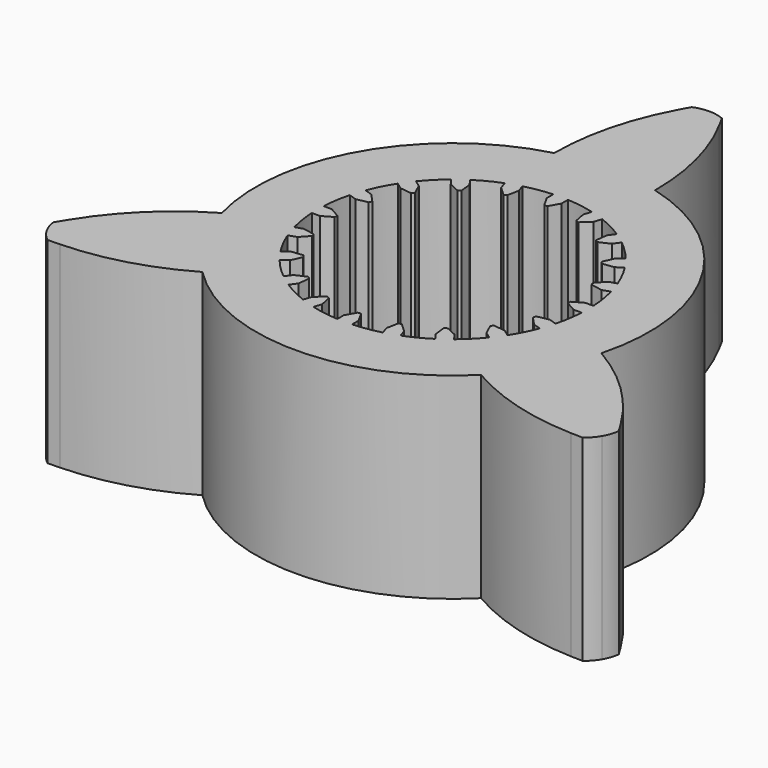
from build123d import *

# Parameters (mm, degrees)
F1_DEPTH = 5.08


with BuildPart() as f1:
    # F0 (on Top) → F1 (new body)
    with BuildSketch(Plane.XY):
        with BuildLine():
            Line((-1.303194, 4.916082), (-1.303194, 4.909999))
            ThreePointArc((-1.303194, 4.909999), (-4.399409, 2.54), (-4.90378, -1.3264))
            Line((-4.90378, -1.3264), (-4.909049, -1.329442))
            ThreePointArc((-4.909049, -1.329442), (-6.160633, -2.275918), (-7.141908, -3.500407))
            Line((-7.141908, -3.500407), (-7.30476, -3.76501))
            ThreePointArc((-7.30476, -3.76501), (-7.26021, -3.960887), (-7.177638, -4.144011))
            ThreePointArc((-7.177638, -4.144011), (-7.060334, -4.307083), (-6.912975, -4.443602))
            Line((-6.912975, -4.443602), (-6.602396, -4.434871))
            ThreePointArc((-6.602396, -4.434871), (-5.051319, -4.197305), (-3.605855, -3.58664))
            Line((-3.605855, -3.58664), (-3.600587, -3.583598))
            ThreePointArc((-3.600587, -3.583598), (0, -5.08), (3.600587, -3.583598))
            Line((3.600587, -3.583598), (3.605855, -3.58664))
            ThreePointArc((3.605855, -3.58664), (5.051319, -4.197305), (6.602396, -4.434871))
            Line((6.602396, -4.434871), (6.912975, -4.443602))
            ThreePointArc((6.912975, -4.443602), (7.060334, -4.307083), (7.177638, -4.144011))
            ThreePointArc((7.177638, -4.144011), (7.26021, -3.960887), (7.30476, -3.76501))
            Line((7.30476, -3.76501), (7.141908, -3.500407))
            ThreePointArc((7.141908, -3.500407), (6.160633, -2.275918), (4.909049, -1.329442))
            Line((4.909049, -1.329442), (4.90378, -1.3264))
            ThreePointArc((4.90378, -1.3264), (4.399409, 2.54), (1.303194, 4.909999))
            Line((1.303194, 4.909999), (1.303194, 4.916082))
            ThreePointArc((1.303194, 4.916082), (1.109314, 6.473223), (0.539513, 7.935278))
            Line((0.539513, 7.935278), (0.391785, 8.208613))
            ThreePointArc((0.391785, 8.208613), (0.199876, 8.26797), (0, 8.288022))
            ThreePointArc((0, 8.288022), (-0.199876, 8.26797), (-0.391785, 8.208613))
            Line((-0.391785, 8.208613), (-0.539513, 7.935278))
            ThreePointArc((-0.539513, 7.935278), (-1.109314, 6.473223), (-1.303194, 4.916082))
        make_face()
        with BuildLine():
            ThreePointArc((-0.896459, 3.375488), (-0.546347, 3.449502), (-0.1905, 3.487301))
            Line((-0.1905, 3.487301), (-0.1905, 3.277213))
            Line((-0.1905, 3.277213), (-0.043109, 3.015703))
            ThreePointArc((-0.043109, 3.015703), (0, 3.007692), (0.043109, 3.015703))
            Line((0.043109, 3.015703), (0.1905, 3.277213))
            Line((0.1905, 3.277213), (0.1905, 3.487301))
            ThreePointArc((0.1905, 3.487301), (0.546347, 3.449502), (0.896459, 3.375488))
            Line((0.896459, 3.375488), (0.831538, 3.175683))
            Line((0.831538, 3.175683), (0.890904, 2.881426))
            ThreePointArc((0.890904, 2.881426), (0.929428, 2.860485), (0.972903, 2.854783))
            Line((0.972903, 2.854783), (1.193891, 3.057947))
            Line((1.193891, 3.057947), (1.258811, 3.257752))
            ThreePointArc((1.258811, 3.257752), (1.585562, 3.11184), (1.895666, 2.933259))
            Line((1.895666, 2.933259), (1.77218, 2.763294))
            Line((1.77218, 2.763294), (1.73771, 2.465094))
            ThreePointArc((1.73771, 2.465094), (1.767877, 2.433274), (1.807462, 2.414416))
            Line((1.807462, 2.414416), (2.080415, 2.539348))
            Line((2.080415, 2.539348), (2.203902, 2.709312))
            ThreePointArc((2.203902, 2.709312), (2.46957, 2.46957), (2.709312, 2.203902))
            Line((2.709312, 2.203902), (2.539348, 2.080415))
            Line((2.539348, 2.080415), (2.414416, 1.807462))
            ThreePointArc((2.414416, 1.807462), (2.433274, 1.767877), (2.465094, 1.73771))
            Line((2.465094, 1.73771), (2.763294, 1.77218))
            Line((2.763294, 1.77218), (2.933259, 1.895666))
            ThreePointArc((2.933259, 1.895666), (3.11184, 1.585562), (3.257752, 1.258811))
            Line((3.257752, 1.258811), (3.057947, 1.193891))
            Line((3.057947, 1.193891), (2.854783, 0.972903))
            ThreePointArc((2.854783, 0.972903), (2.860485, 0.929428), (2.881426, 0.890904))
            Line((2.881426, 0.890904), (3.175683, 0.831538))
            Line((3.175683, 0.831538), (3.375488, 0.896459))
            ThreePointArc((3.375488, 0.896459), (3.449502, 0.546347), (3.487301, 0.1905))
            Line((3.487301, 0.1905), (3.277213, 0.1905))
            Line((3.277213, 0.1905), (3.015703, 0.043109))
            ThreePointArc((3.015703, 0.043109), (3.007692, 0), (3.015703, -0.043109))
            Line((3.015703, -0.043109), (3.277213, -0.1905))
            Line((3.277213, -0.1905), (3.487301, -0.1905))
            ThreePointArc((3.487301, -0.1905), (3.449502, -0.546347), (3.375488, -0.896459))
            Line((3.375488, -0.896459), (3.175683, -0.831538))
            Line((3.175683, -0.831538), (2.881426, -0.890904))
            ThreePointArc((2.881426, -0.890904), (2.860485, -0.929428), (2.854783, -0.972903))
            Line((2.854783, -0.972903), (3.057947, -1.193891))
            Line((3.057947, -1.193891), (3.257752, -1.258811))
            ThreePointArc((3.257752, -1.258811), (3.11184, -1.585562), (2.933259, -1.895666))
            Line((2.933259, -1.895666), (2.763294, -1.77218))
            Line((2.763294, -1.77218), (2.465094, -1.73771))
            ThreePointArc((2.465094, -1.73771), (2.433274, -1.767877), (2.414416, -1.807462))
            Line((2.414416, -1.807462), (2.539348, -2.080415))
            Line((2.539348, -2.080415), (2.709312, -2.203902))
            ThreePointArc((2.709312, -2.203902), (2.46957, -2.46957), (2.203902, -2.709312))
            Line((2.203902, -2.709312), (2.080415, -2.539348))
            Line((2.080415, -2.539348), (1.807462, -2.414416))
            ThreePointArc((1.807462, -2.414416), (1.767877, -2.433274), (1.73771, -2.465094))
            Line((1.73771, -2.465094), (1.77218, -2.763294))
            Line((1.77218, -2.763294), (1.895666, -2.933259))
            ThreePointArc((1.895666, -2.933259), (1.585562, -3.11184), (1.258811, -3.257752))
            Line((1.258811, -3.257752), (1.193891, -3.057947))
            Line((1.193891, -3.057947), (0.972903, -2.854783))
            ThreePointArc((0.972903, -2.854783), (0.929428, -2.860485), (0.890904, -2.881426))
            Line((0.890904, -2.881426), (0.831538, -3.175683))
            Line((0.831538, -3.175683), (0.896459, -3.375488))
            ThreePointArc((0.896459, -3.375488), (0.546347, -3.449502), (0.1905, -3.487301))
            Line((0.1905, -3.487301), (0.1905, -3.277213))
            Line((0.1905, -3.277213), (0.043109, -3.015703))
            ThreePointArc((0.043109, -3.015703), (0, -3.007692), (-0.043109, -3.015703))
            Line((-0.043109, -3.015703), (-0.1905, -3.277213))
            Line((-0.1905, -3.277213), (-0.1905, -3.487301))
            ThreePointArc((-0.1905, -3.487301), (-0.546347, -3.449502), (-0.896459, -3.375488))
            Line((-0.896459, -3.375488), (-0.831538, -3.175683))
            Line((-0.831538, -3.175683), (-0.890904, -2.881426))
            ThreePointArc((-0.890904, -2.881426), (-0.929428, -2.860485), (-0.972903, -2.854783))
            Line((-0.972903, -2.854783), (-1.193891, -3.057947))
            Line((-1.193891, -3.057947), (-1.258811, -3.257752))
            ThreePointArc((-1.258811, -3.257752), (-1.585562, -3.11184), (-1.895666, -2.933259))
            Line((-1.895666, -2.933259), (-1.77218, -2.763294))
            Line((-1.77218, -2.763294), (-1.73771, -2.465094))
            ThreePointArc((-1.73771, -2.465094), (-1.767877, -2.433274), (-1.807462, -2.414416))
            Line((-1.807462, -2.414416), (-2.080415, -2.539348))
            Line((-2.080415, -2.539348), (-2.203902, -2.709312))
            ThreePointArc((-2.203902, -2.709312), (-2.46957, -2.46957), (-2.709312, -2.203902))
            Line((-2.709312, -2.203902), (-2.539348, -2.080415))
            Line((-2.539348, -2.080415), (-2.414416, -1.807462))
            ThreePointArc((-2.414416, -1.807462), (-2.433274, -1.767877), (-2.465094, -1.73771))
            Line((-2.465094, -1.73771), (-2.763294, -1.77218))
            Line((-2.763294, -1.77218), (-2.933259, -1.895666))
            ThreePointArc((-2.933259, -1.895666), (-3.11184, -1.585562), (-3.257752, -1.258811))
            Line((-3.257752, -1.258811), (-3.057947, -1.193891))
            Line((-3.057947, -1.193891), (-2.854783, -0.972903))
            ThreePointArc((-2.854783, -0.972903), (-2.860485, -0.929428), (-2.881426, -0.890904))
            Line((-2.881426, -0.890904), (-3.175683, -0.831538))
            Line((-3.175683, -0.831538), (-3.375488, -0.896459))
            ThreePointArc((-3.375488, -0.896459), (-3.449502, -0.546347), (-3.487301, -0.1905))
            Line((-3.487301, -0.1905), (-3.277213, -0.1905))
            Line((-3.277213, -0.1905), (-3.015703, -0.043109))
            ThreePointArc((-3.015703, -0.043109), (-3.007692, 0), (-3.015703, 0.043109))
            Line((-3.015703, 0.043109), (-3.277213, 0.1905))
            Line((-3.277213, 0.1905), (-3.487301, 0.1905))
            ThreePointArc((-3.487301, 0.1905), (-3.449502, 0.546347), (-3.375488, 0.896459))
            Line((-3.375488, 0.896459), (-3.175683, 0.831538))
            Line((-3.175683, 0.831538), (-2.881426, 0.890904))
            ThreePointArc((-2.881426, 0.890904), (-2.860485, 0.929428), (-2.854783, 0.972903))
            Line((-2.854783, 0.972903), (-3.057947, 1.193891))
            Line((-3.057947, 1.193891), (-3.257752, 1.258811))
            ThreePointArc((-3.257752, 1.258811), (-3.11184, 1.585562), (-2.933259, 1.895666))
            Line((-2.933259, 1.895666), (-2.763294, 1.77218))
            Line((-2.763294, 1.77218), (-2.465094, 1.73771))
            ThreePointArc((-2.465094, 1.73771), (-2.433274, 1.767877), (-2.414416, 1.807462))
            Line((-2.414416, 1.807462), (-2.539348, 2.080415))
            Line((-2.539348, 2.080415), (-2.709312, 2.203902))
            ThreePointArc((-2.709312, 2.203902), (-2.46957, 2.46957), (-2.203902, 2.709312))
            Line((-2.203902, 2.709312), (-2.080415, 2.539348))
            Line((-2.080415, 2.539348), (-1.807462, 2.414416))
            ThreePointArc((-1.807462, 2.414416), (-1.767877, 2.433274), (-1.73771, 2.465094))
            Line((-1.73771, 2.465094), (-1.77218, 2.763294))
            Line((-1.77218, 2.763294), (-1.895666, 2.933259))
            ThreePointArc((-1.895666, 2.933259), (-1.585562, 3.11184), (-1.258811, 3.257752))
            Line((-1.258811, 3.257752), (-1.193891, 3.057947))
            Line((-1.193891, 3.057947), (-0.972903, 2.854783))
            ThreePointArc((-0.972903, 2.854783), (-0.929428, 2.860485), (-0.890904, 2.881426))
            Line((-0.890904, 2.881426), (-0.831538, 3.175683))
            Line((-0.831538, 3.175683), (-0.896459, 3.375488))
        make_face(mode=Mode.SUBTRACT)
    extrude(amount=F1_DEPTH)


solid = f1.part
